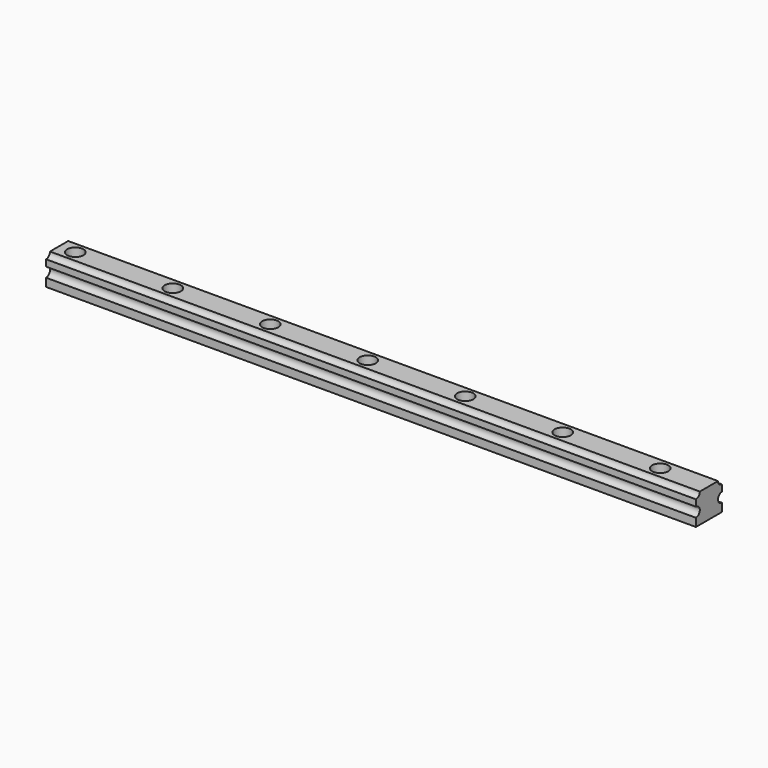
from build123d import *

# Parameters (mm, degrees)
F1_DEPTH = 400
F2_R     = 3
F3_DEPTH = 18
F4_R     = 5
F5_DEPTH = 7


with BuildPart() as f1:
    # F0 (on Right) → F1 (new body)
    with BuildSketch(Plane.YZ):
        with BuildLine():
            Line((-26.041336, 5), (-26.041336, 0))
            Line((-26.041336, 0), (-6.041336, 0))
            Line((-6.041336, 0), (-6.041336, 5))
            ThreePointArc((-6.041336, 5), (-9.041336, 8), (-6.041336, 11))
            Line((-6.041336, 11), (-6.041336, 15))
            ThreePointArc((-6.041336, 15), (-8.162657, 15.87868), (-9.041336, 18))
            Line((-9.041336, 18), (-23.041336, 18))
            ThreePointArc((-23.041336, 18), (-23.920016, 15.87868), (-26.041336, 15))
            Line((-26.041336, 15), (-26.041336, 11))
            ThreePointArc((-26.041336, 11), (-23.041336, 8), (-26.041336, 5))
        make_face()
    extrude(amount=F1_DEPTH)

    # F2 (on face) → F3 (cut)
    with BuildSketch(Plane.XY.offset(18)):
        with Locations((10, -16.041336)):
            Circle(F2_R)
        with Locations((70, -16.041336)):
            Circle(F2_R)
        with Locations((130, -16.041336)):
            Circle(F2_R)
        with Locations((190, -16.041336)):
            Circle(F2_R)
        with Locations((250, -16.041336)):
            Circle(F2_R)
        with Locations((310, -16.041336)):
            Circle(F2_R)
        with Locations((370, -16.041336)):
            Circle(F2_R)
        with Locations((430, -16.041336)):
            Circle(F2_R)
        with Locations((490, -16.041336)):
            Circle(F2_R)
        with Locations((550, -16.041336)):
            Circle(F2_R)
        with Locations((610, -16.041336)):
            Circle(F2_R)
        with Locations((670, -16.041336)):
            Circle(F2_R)
        with Locations((730, -16.041336)):
            Circle(F2_R)
        with Locations((790, -16.041336)):
            Circle(F2_R)
        with Locations((850, -16.041336)):
            Circle(F2_R)
        with Locations((910, -16.041336)):
            Circle(F2_R)
        with Locations((970, -16.041336)):
            Circle(F2_R)
        with Locations((1030, -16.041336)):
            Circle(F2_R)
        with Locations((1090, -16.041336)):
            Circle(F2_R)
        with Locations((1150, -16.041336)):
            Circle(F2_R)
        with Locations((1210, -16.041336)):
            Circle(F2_R)
        with Locations((1270, -16.041336)):
            Circle(F2_R)
        with Locations((1330, -16.041336)):
            Circle(F2_R)
        with Locations((1390, -16.041336)):
            Circle(F2_R)
        with Locations((1450, -16.041336)):
            Circle(F2_R)
        with Locations((1510, -16.041336)):
            Circle(F2_R)
        with Locations((1570, -16.041336)):
            Circle(F2_R)
        with Locations((1630, -16.041336)):
            Circle(F2_R)
        with Locations((1690, -16.041336)):
            Circle(F2_R)
        with Locations((1750, -16.041336)):
            Circle(F2_R)
        with Locations((1810, -16.041336)):
            Circle(F2_R)
        with Locations((1870, -16.041336)):
            Circle(F2_R)
        with Locations((1930, -16.041336)):
            Circle(F2_R)
        with Locations((1990, -16.041336)):
            Circle(F2_R)
    extrude(amount=-F3_DEPTH, mode=Mode.SUBTRACT)

    # F4 (on face) → F5 (cut)
    with BuildSketch(Plane.XY.offset(18)):
        with Locations((10, -16.041336)):
            Circle(F4_R)
        with Locations((70, -16.041336)):
            Circle(F4_R)
        with Locations((130, -16.041336)):
            Circle(F4_R)
        with Locations((190, -16.041336)):
            Circle(F4_R)
        with Locations((250, -16.041336)):
            Circle(F4_R)
        with Locations((310, -16.041336)):
            Circle(F4_R)
        with Locations((370, -16.041336)):
            Circle(F4_R)
    extrude(amount=-F5_DEPTH, mode=Mode.SUBTRACT)


solid = f1.part
